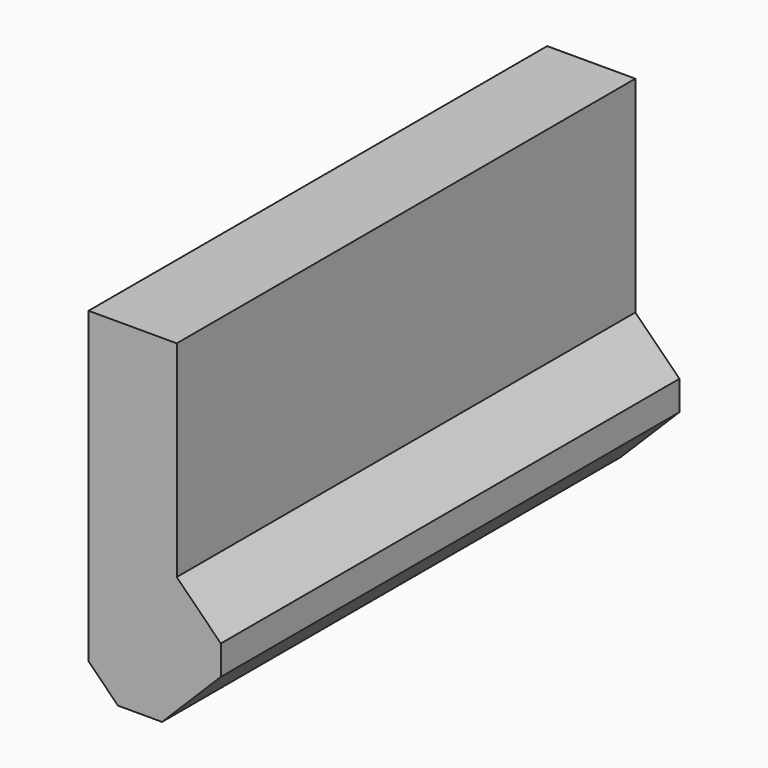
from build123d import *

# Parameters (mm, degrees)
BOX_W                 = 3
BOX_H                 = 19.5
BOX_DEPTH             = 10
CHAMFER013004004_SIZE = 1
BOX001_W              = 4.5
BOX001_H              = 19.5
BOX001_DEPTH          = 5
CHAMFER013004011_SIZE = 2
CHAMFER013004012_SIZE = 2
CHAMFER013004013_SIZE = 1


with BuildPart() as chamfer013004004:
    # Box → Box (new body)
    with BuildSketch(Plane(origin=(-38, -9.75, 4), x_dir=(1, 0, 0), z_dir=(0, 0, 1))):
        with Locations((1.5, 9.75)):
            Rectangle(BOX_W, BOX_H)
    extrude(amount=BOX_DEPTH)

    # Chamfer013004004
    chamfer013004004_edges = [chamfer013004004.edges().sort_by_distance(p)[0] for p in [
        (-35, 0, 4),
    ]]
    chamfer(chamfer013004004_edges, length=CHAMFER013004004_SIZE)


with BuildPart() as clip:
    # Box001 → Box001 (new body)
    with BuildSketch(Plane(origin=(-38, -9.75, 2), x_dir=(1, 0, 0), z_dir=(0, 0, 1))):
        with Locations((2.25, 9.75)):
            Rectangle(BOX001_W, BOX001_H)
    extrude(amount=BOX001_DEPTH)

    # Chamfer013004011
    chamfer013004011_edges = [clip.edges().sort_by_distance(p)[0] for p in [
        (-33.5, 0, 7),
    ]]
    chamfer(chamfer013004011_edges, length=CHAMFER013004011_SIZE)

    # Chamfer013004012
    chamfer013004012_edges = [clip.edges().sort_by_distance(p)[0] for p in [
        (-33.5, 0, 2),
    ]]
    chamfer(chamfer013004012_edges, length=CHAMFER013004012_SIZE)

    # Chamfer013004013
    chamfer013004013_edges = [clip.edges().sort_by_distance(p)[0] for p in [
        (-38, 0, 2),
    ]]
    chamfer(chamfer013004013_edges, length=CHAMFER013004013_SIZE)


with BuildPart() as clip_1:
    # Chamfer013004013 placement: moved
    add(clip.part.moved(Location((0, 0, 0.5))))

    # Fusion004008: union Chamfer013004004
    add(chamfer013004004.part)


solid = clip_1.part
